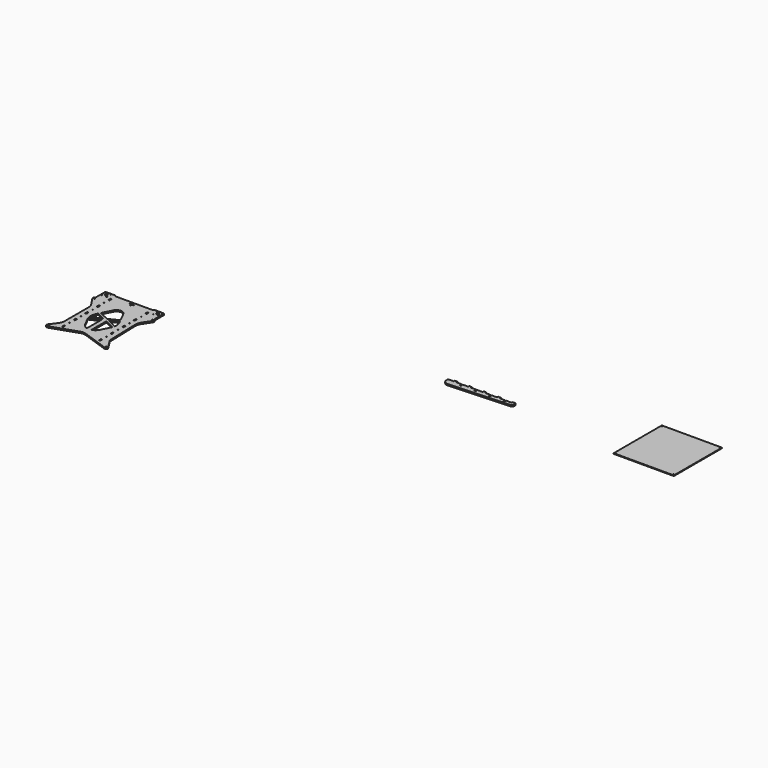
from build123d import *

# Parameters (mm, degrees)
F0_R     = 2.5
F0_W     = 6
F0_H     = 12
F0_R_2   = 2
F0_R_3   = 2.1
F0_R_4   = 6.15
F0_R_5   = 1.65
F0_R_6   = 5.05
F1_DEPTH = 6
F3_DEPTH = 6
F4_W     = 270
F4_H     = 270
F4_R     = 2.15
F5_DEPTH = 3


with BuildPart() as f1:
    # F0 (on Top) → F1 (new body)
    with BuildSketch(Plane.XY):
        with BuildLine():
            Line((-1554.417839, -399.486309), (-1529.781544, -362.016457))
            ThreePointArc((-1529.781544, -362.016457), (-1528.548388, -357.863543), (-1529.817525, -353.721483))
            Line((-1529.817525, -353.721483), (-1534.088318, -347.347105))
            Line((-1534.088318, -347.347105), (-1534.088318, -327.347105))
            Line((-1534.088318, -327.347105), (-1534.088318, -295.896075))
            ThreePointArc((-1534.088318, -295.896075), (-1534.674104, -294.481862), (-1536.088318, -293.896075))
            Line((-1536.088318, -293.896075), (-1578.048318, -293.896075))
            ThreePointArc((-1578.048318, -293.896075), (-1579.462531, -294.481862), (-1580.048318, -295.896075))
            Line((-1580.048318, -295.896075), (-1580.048318, -296.896075))
            ThreePointArc((-1580.048318, -296.896075), (-1580.634104, -298.310289), (-1582.048318, -298.896075))
            Line((-1582.048318, -298.896075), (-1750.048318, -298.896075))
            ThreePointArc((-1750.048318, -298.896075), (-1751.462531, -298.310289), (-1752.048318, -296.896075))
            Line((-1752.048318, -296.896075), (-1752.048318, -295.896075))
            ThreePointArc((-1752.048318, -295.896075), (-1752.634104, -294.481862), (-1754.048318, -293.896075))
            Line((-1754.048318, -293.896075), (-1796.088318, -293.896075))
            ThreePointArc((-1796.088318, -293.896075), (-1797.502531, -294.481862), (-1798.088318, -295.896075))
            Line((-1798.088318, -295.896075), (-1798.088318, -327.347105))
            Line((-1798.088318, -327.347105), (-1798.088318, -347.347105))
            Line((-1798.088318, -347.347105), (-1802.315091, -353.775694))
            ThreePointArc((-1802.315091, -353.775694), (-1803.548318, -357.896075), (-1802.315091, -362.016457))
            Line((-1802.315091, -362.016457), (-1777.311815, -400.04446))
            ThreePointArc((-1777.311815, -400.04446), (-1772.414172, -410.55056), (-1770.734609, -422.019828))
            Line((-1770.734609, -422.019828), (-1770.734609, -558.298638))
            ThreePointArc((-1770.734609, -558.298638), (-1772.786058, -570.94409), (-1778.729982, -582.292467))
            Line((-1778.729982, -582.292467), (-1802.049185, -613.397232))
            ThreePointArc((-1802.049185, -613.397232), (-1802.109561, -622.313237), (-1793.60351, -624.986415))
            Line((-1793.60351, -624.986415), (-1679.087292, -585.500277))
            ThreePointArc((-1679.087292, -585.500277), (-1666.048318, -583.315422), (-1653.009343, -585.500277))
            Line((-1653.009343, -585.500277), (-1538.493125, -624.986415))
            ThreePointArc((-1538.493125, -624.986415), (-1530.167336, -622.550541), (-1529.709228, -613.88784))
            Line((-1529.709228, -613.88784), (-1556.430517, -571.627686))
            Line((-1556.430517, -571.627686), (-1560.976427, -422.681933))
            ThreePointArc((-1560.976427, -422.681933), (-1559.485985, -410.578321), (-1554.417839, -399.486309))
        make_face()
        with Locations((-1796.048318, -617.896075)):
            Circle(F0_R, mode=Mode.SUBTRACT)
        with Locations((-1749.048318, -589.896075)):
            Rectangle(F0_W, F0_H, mode=Mode.SUBTRACT)
        with Locations((-1583.048318, -589.896075)):
            Rectangle(F0_W, F0_H, mode=Mode.SUBTRACT)
        with Locations((-1749.048318, -557.396075)):
            Circle(F0_R_2, mode=Mode.SUBTRACT)
        with Locations((-1583.048318, -557.396075)):
            Circle(F0_R_2, mode=Mode.SUBTRACT)
        with Locations((-1536.048318, -617.896075)):
            Circle(F0_R, mode=Mode.SUBTRACT)
        with Locations((-1749.048318, -524.896075)):
            Rectangle(F0_W, F0_H, mode=Mode.SUBTRACT)
        with Locations((-1749.048318, -492.396075)):
            Circle(F0_R_2, mode=Mode.SUBTRACT)
        with BuildLine():
            ThreePointArc((-1676.048318, -550.972391), (-1689.912996, -543.748774), (-1699.623289, -531.49642))
            Line((-1699.623289, -531.49642), (-1720.95274, -488.446458))
            Line((-1720.95274, -488.446458), (-1676.048318, -466.866594))
            Line((-1676.048318, -466.866594), (-1676.048318, -550.972391))
        make_face(mode=Mode.SUBTRACT)
        with Locations((-1583.048318, -524.896075)):
            Rectangle(F0_W, F0_H, mode=Mode.SUBTRACT)
        with BuildLine():
            Line((-1611.143895, -488.446458), (-1632.473346, -531.49642))
            ThreePointArc((-1632.473346, -531.49642), (-1642.183639, -543.748774), (-1656.048318, -550.972391))
            Line((-1656.048318, -550.972391), (-1656.048318, -466.866594))
            Line((-1656.048318, -466.866594), (-1611.143895, -488.446458))
        make_face(mode=Mode.SUBTRACT)
        with Locations((-1583.048318, -492.396075)):
            Circle(F0_R_2, mode=Mode.SUBTRACT)
        with Locations((-1749.048318, -459.896075)):
            Rectangle(F0_W, F0_H, mode=Mode.SUBTRACT)
        with BuildLine():
            ThreePointArc((-1723.358449, -478.507756), (-1722.722633, -457.786812), (-1714.834876, -438.615347))
            Line((-1714.834876, -438.615347), (-1677.591637, -456.513451))
            Line((-1677.591637, -456.513451), (-1723.358449, -478.507756))
        make_face(mode=Mode.SUBTRACT)
        with BuildLine():
            ThreePointArc((-1617.261759, -438.615347), (-1609.374002, -457.786812), (-1608.738186, -478.507756))
            Line((-1608.738186, -478.507756), (-1654.504998, -456.513451))
            Line((-1654.504998, -456.513451), (-1617.261759, -438.615347))
        make_face(mode=Mode.SUBTRACT)
        with Locations((-1583.048318, -459.896075)):
            Rectangle(F0_W, F0_H, mode=Mode.SUBTRACT)
        with Locations((-1749.048318, -427.396075)):
            Circle(F0_R_2, mode=Mode.SUBTRACT)
        with Locations((-1583.048318, -427.396075)):
            Circle(F0_R_2, mode=Mode.SUBTRACT)
        with BuildLine():
            ThreePointArc((-1689.341417, -388.548364), (-1666.048318, -372.309205), (-1642.755218, -388.548364))
            Line((-1642.755218, -388.548364), (-1621.800469, -429.701707))
            Line((-1621.800469, -429.701707), (-1666.048318, -450.96604))
            Line((-1666.048318, -450.96604), (-1710.296166, -429.701707))
            Line((-1710.296166, -429.701707), (-1689.341417, -388.548364))
        make_face(mode=Mode.SUBTRACT)
        with Locations((-1749.048318, -394.896075)):
            Rectangle(F0_W, F0_H, mode=Mode.SUBTRACT)
        with Locations((-1796.048318, -357.896075)):
            Circle(F0_R, mode=Mode.SUBTRACT)
        with Locations((-1749.048318, -362.396075)):
            Circle(F0_R_2, mode=Mode.SUBTRACT)
        with Locations((-1583.048318, -394.896075)):
            Rectangle(F0_W, F0_H, mode=Mode.SUBTRACT)
        with Locations((-1583.048318, -362.396075)):
            Circle(F0_R_2, mode=Mode.SUBTRACT)
        with Locations((-1536.048318, -357.896075)):
            Circle(F0_R, mode=Mode.SUBTRACT)
        with Locations((-1793.362026, -321.209784)):
            Circle(F0_R_3, mode=Mode.SUBTRACT)
        with Locations((-1749.048318, -329.896075)):
            Rectangle(F0_W, F0_H, mode=Mode.SUBTRACT)
        with Locations((-1770.734609, -321.209784)):
            Circle(F0_R_3, mode=Mode.SUBTRACT)
        with Locations((-1782.048318, -309.896075)):
            Circle(F0_R_4, mode=Mode.SUBTRACT)
        with Locations((-1666.048318, -318.896075)):
            Circle(F0_R_5, mode=Mode.SUBTRACT)
        with Locations((-1674.048318, -310.896075)):
            Circle(F0_R_5, mode=Mode.SUBTRACT)
        with Locations((-1666.048318, -310.896075)):
            Circle(F0_R_6, mode=Mode.SUBTRACT)
        with Locations((-1658.048318, -310.896075)):
            Circle(F0_R_5, mode=Mode.SUBTRACT)
        with Locations((-1583.048318, -329.896075)):
            Rectangle(F0_W, F0_H, mode=Mode.SUBTRACT)
        with Locations((-1561.362026, -321.209784)):
            Circle(F0_R_3, mode=Mode.SUBTRACT)
        with Locations((-1793.362026, -298.582367)):
            Circle(F0_R_3, mode=Mode.SUBTRACT)
        with Locations((-1770.734609, -298.582367)):
            Circle(F0_R_3, mode=Mode.SUBTRACT)
        with Locations((-1666.048318, -302.896075)):
            Circle(F0_R_5, mode=Mode.SUBTRACT)
        with Locations((-1561.362026, -298.582367)):
            Circle(F0_R_3, mode=Mode.SUBTRACT)
        with Locations((-1538.734609, -321.209784)):
            Circle(F0_R_3, mode=Mode.SUBTRACT)
        with Locations((-1550.048318, -309.896075)):
            Circle(F0_R_4, mode=Mode.SUBTRACT)
        with Locations((-1538.734609, -298.582367)):
            Circle(F0_R_3, mode=Mode.SUBTRACT)
    extrude(amount=F1_DEPTH)


with BuildPart() as f3:
    # F2 (on Top) → F3 (new body)
    with BuildSketch(Plane.XY):
        with BuildLine():
            Line((-419.451453, -55.693781), (-419.451453, -61.693781))
            Line((-419.451453, -61.693781), (-444.451453, -61.693781))
            Line((-444.451453, -61.693781), (-444.451453, -71.266965))
            ThreePointArc((-444.451453, -71.266965), (-438.098416, -85.887513), (-423.075412, -91.219572))
            Line((-423.075412, -91.219572), (-151.934521, -77.184648))
            ThreePointArc((-151.934521, -77.184648), (-145.199925, -74.083898), (-142.451453, -67.198018))
            Line((-142.451453, -67.198018), (-142.451453, -61.693781))
            Line((-142.451453, -61.693781), (-147.451453, -61.693781))
            Line((-147.451453, -61.693781), (-147.451453, -55.693781))
            Line((-147.451453, -55.693781), (-159.451453, -55.693781))
            Line((-159.451453, -55.693781), (-159.451453, -61.693781))
            Line((-159.451453, -61.693781), (-183.951453, -61.693781))
            Line((-183.951453, -61.693781), (-183.951453, -66.693781))
            Line((-183.951453, -66.693781), (-182.451453, -66.693781))
            Line((-182.451453, -66.693781), (-182.451453, -70.193781))
            Line((-182.451453, -70.193781), (-183.951453, -70.193781))
            Line((-183.951453, -70.193781), (-183.951453, -73.193781))
            Line((-183.951453, -73.193781), (-187.951453, -73.193781))
            Line((-187.951453, -73.193781), (-187.951453, -70.193781))
            Line((-187.951453, -70.193781), (-189.451453, -70.193781))
            Line((-189.451453, -70.193781), (-189.451453, -66.693781))
            Line((-189.451453, -66.693781), (-187.951453, -66.693781))
            Line((-187.951453, -66.693781), (-187.951453, -61.693781))
            Line((-187.951453, -61.693781), (-212.451453, -61.693781))
            Line((-212.451453, -61.693781), (-212.451453, -55.693781))
            Line((-212.451453, -55.693781), (-224.451453, -55.693781))
            Line((-224.451453, -55.693781), (-224.451453, -61.693781))
            Line((-224.451453, -61.693781), (-248.951453, -61.693781))
            Line((-248.951453, -61.693781), (-248.951453, -66.693781))
            Line((-248.951453, -66.693781), (-247.451453, -66.693781))
            Line((-247.451453, -66.693781), (-247.451453, -70.193781))
            Line((-247.451453, -70.193781), (-248.951453, -70.193781))
            Line((-248.951453, -70.193781), (-248.951453, -73.193781))
            Line((-248.951453, -73.193781), (-252.951453, -73.193781))
            Line((-252.951453, -73.193781), (-252.951453, -70.193781))
            Line((-252.951453, -70.193781), (-254.451453, -70.193781))
            Line((-254.451453, -70.193781), (-254.451453, -66.693781))
            Line((-254.451453, -66.693781), (-252.951453, -66.693781))
            Line((-252.951453, -66.693781), (-252.951453, -61.693781))
            Line((-252.951453, -61.693781), (-277.451453, -61.693781))
            Line((-277.451453, -61.693781), (-277.451453, -55.693781))
            Line((-277.451453, -55.693781), (-289.451453, -55.693781))
            Line((-289.451453, -55.693781), (-289.451453, -61.693781))
            Line((-289.451453, -61.693781), (-313.951453, -61.693781))
            Line((-313.951453, -61.693781), (-313.951453, -66.693781))
            Line((-313.951453, -66.693781), (-312.451453, -66.693781))
            Line((-312.451453, -66.693781), (-312.451453, -70.193781))
            Line((-312.451453, -70.193781), (-313.951453, -70.193781))
            Line((-313.951453, -70.193781), (-313.951453, -73.193781))
            Line((-313.951453, -73.193781), (-317.951453, -73.193781))
            Line((-317.951453, -73.193781), (-317.951453, -70.193781))
            Line((-317.951453, -70.193781), (-319.451453, -70.193781))
            Line((-319.451453, -70.193781), (-319.451453, -66.693781))
            Line((-319.451453, -66.693781), (-317.951453, -66.693781))
            Line((-317.951453, -66.693781), (-317.951453, -61.693781))
            Line((-317.951453, -61.693781), (-342.451453, -61.693781))
            Line((-342.451453, -61.693781), (-342.451453, -55.693781))
            Line((-342.451453, -55.693781), (-354.451453, -55.693781))
            Line((-354.451453, -55.693781), (-354.451453, -61.693781))
            Line((-354.451453, -61.693781), (-378.951453, -61.693781))
            Line((-378.951453, -61.693781), (-378.951453, -66.693781))
            Line((-378.951453, -66.693781), (-377.451453, -66.693781))
            Line((-377.451453, -66.693781), (-377.451453, -70.193781))
            Line((-377.451453, -70.193781), (-378.951453, -70.193781))
            Line((-378.951453, -70.193781), (-378.951453, -73.193781))
            Line((-378.951453, -73.193781), (-382.951453, -73.193781))
            Line((-382.951453, -73.193781), (-382.951453, -70.193781))
            Line((-382.951453, -70.193781), (-384.451453, -70.193781))
            Line((-384.451453, -70.193781), (-384.451453, -66.693781))
            Line((-384.451453, -66.693781), (-382.951453, -66.693781))
            Line((-382.951453, -66.693781), (-382.951453, -61.693781))
            Line((-382.951453, -61.693781), (-407.451453, -61.693781))
            Line((-407.451453, -61.693781), (-407.451453, -55.693781))
            Line((-407.451453, -55.693781), (-419.451453, -55.693781))
        make_face()
    extrude(amount=F3_DEPTH)


with BuildPart() as f5:
    # F4 (on Top) → F5 (new body)
    with BuildSketch(Plane.XY):
        with Locations((491.281083, 2.159739)):
            Rectangle(F4_W, F4_H)
        with Locations((361.281083, -127.840261)):
            Circle(F4_R, mode=Mode.SUBTRACT)
        with Locations((621.281083, -127.840261)):
            Circle(F4_R, mode=Mode.SUBTRACT)
        with Locations((361.281083, 132.159739)):
            Circle(F4_R, mode=Mode.SUBTRACT)
        with Locations((621.281083, 132.159739)):
            Circle(F4_R, mode=Mode.SUBTRACT)
    extrude(amount=F5_DEPTH)


solid = Compound([f1.part, f3.part, f5.part])
